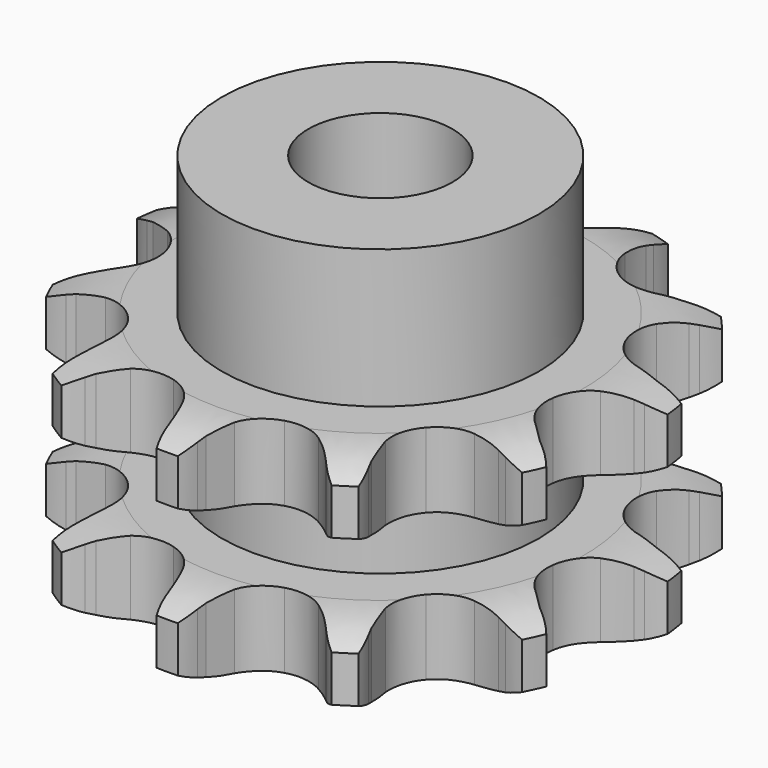
from build123d import *

# Parameters (mm, degrees)
PAD_DEPTH         = 15.4
SKETCH001_R       = 11
PAD001_DEPTH      = 25
SKETCH002_R       = 5
POCKET_DEPTH      = 0.001
POCKET_DEPTH_BACK = 25.001


with BuildPart() as part:
    # Sprocket → Pad (new body)
    with BuildSketch(Plane.XY):
        with BuildLine():
            ThreePointArc((-5.534693, 18.849434), (-4.531257, 17.974923), (-3.774048, 16.880261))
            Line((-3.774048, 16.880261), (-3.501626, 16.357957))
            ThreePointArc((-3.501626, 16.357957), (-3.022974, 15.55414), (-2.456995, 14.809227))
            ThreePointArc((-2.456995, 14.809227), (-1.353005, 13.972494), (0, 13.675355))
            ThreePointArc((0, 13.675355), (1.353005, 13.972494), (2.456995, 14.809227))
            ThreePointArc((2.456995, 14.809227), (3.022974, 15.55414), (3.501626, 16.357957))
            Line((3.501626, 16.357957), (3.774048, 16.880261))
            ThreePointArc((3.774048, 16.880261), (4.531257, 17.974923), (5.534693, 18.849434))
            ThreePointArc((5.534693, 18.849434), (5.906041, 17.57125), (5.951227, 16.240983))
            Line((5.951227, 16.240983), (5.898024, 15.654311))
            ThreePointArc((5.898024, 15.654311), (5.866116, 14.719319), (5.939517, 13.786666))
            ThreePointArc((5.939517, 13.786666), (6.415881, 12.4859), (7.393455, 11.50444))
            ThreePointArc((7.393455, 11.50444), (8.692321, 11.022921), (10.073428, 11.129963))
            Line((10.073428, 11.129963), (11.789535, 11.868067))
            ThreePointArc((11.789535, 11.868067), (12.042722, 12.018656), (12.301089, 12.160175))
            ThreePointArc((12.301089, 12.160175), (13.529913, 12.671685), (14.846854, 12.864872))
            ThreePointArc((14.846854, 12.864872), (14.468213, 11.58883), (13.787029, 10.445308))
            Line((13.787029, 10.445308), (13.425093, 9.980532))
            ThreePointArc((13.425093, 9.980532), (12.892755, 9.211217), (12.450274, 8.386936))
            ThreePointArc((12.450274, 8.386936), (12.147769, 7.035121), (12.43954, 5.680948))
            ThreePointArc((12.43954, 5.680948), (13.271887, 4.573647), (14.491619, 3.917014))
            Line((14.491619, 3.917014), (16.334349, 3.610149))
            ThreePointArc((16.334349, 3.610149), (16.628758, 3.599949), (16.922621, 3.579319))
            ThreePointArc((16.922621, 3.579319), (18.232918, 3.345276), (19.445243, 2.795804))
            ThreePointArc((19.445243, 2.795804), (18.436829, 1.927037), (17.245547, 1.333322))
            Line((17.245547, 1.333322), (16.68979, 1.138005))
            ThreePointArc((16.68979, 1.138005), (15.826036, 0.77862), (15.008157, 0.324413))
            ThreePointArc((15.008157, 0.324413), (14.022827, -0.64926), (13.536159, -1.946206))
            ThreePointArc((13.536159, -1.946206), (13.637722, -3.327727), (14.308823, -4.539559))
            Line((14.308823, -4.539559), (15.693123, -5.793965))
            ThreePointArc((15.693123, -5.793965), (15.935281, -5.961715), (16.171341, -6.137945))
            ThreePointArc((16.171341, -6.137945), (17.147099, -7.043234), (17.869905, -8.160912))
            ThreePointArc((17.869905, -8.160912), (16.551883, -8.346575), (15.228725, -8.201985))
            Line((15.228725, -8.201985), (14.655596, -8.065831))
            ThreePointArc((14.655596, -8.065831), (13.734662, -7.901184), (12.801056, -7.841108))
            ThreePointArc((12.801056, -7.841108), (11.445737, -8.127505), (10.335143, -8.955453))
            ThreePointArc((10.335143, -8.955453), (9.673677, -10.172571), (9.583077, -11.554854))
            Line((9.583077, -11.554854), (10.069441, -13.358536))
            ThreePointArc((10.069441, -13.358536), (10.182465, -13.630578), (10.285774, -13.906455))
            ThreePointArc((10.285774, -13.906455), (10.617198, -15.195567), (10.620998, -16.526596))
            ThreePointArc((10.620998, -16.526596), (9.411831, -15.97021), (8.376891, -15.13322))
            Line((8.376891, -15.13322), (7.968355, -14.708822))
            ThreePointArc((7.968355, -14.708822), (7.28263, -14.072418), (6.52971, -13.517133))
            ThreePointArc((6.52971, -13.517133), (5.234705, -13.025325), (3.852793, -13.121407))
            ThreePointArc((3.852793, -13.121407), (2.638308, -13.787696), (1.814772, -14.901564))
            Line((1.814772, -14.901564), (1.248783, -16.681867))
            ThreePointArc((1.248783, -16.681867), (1.196788, -16.971828), (1.134547, -17.259764))
            ThreePointArc((1.134547, -17.259764), (0.716411, -18.523415), (0, -19.645203))
            ThreePointArc((0, -19.645203), (-0.716411, -18.523415), (-1.134547, -17.259764))
            Line((-1.134547, -17.259764), (-1.248783, -16.681867))
            ThreePointArc((-1.248783, -16.681867), (-1.481585, -15.775758), (-1.814772, -14.901564))
            ThreePointArc((-1.814772, -14.901564), (-2.638308, -13.787696), (-3.852793, -13.121407))
            ThreePointArc((-3.852793, -13.121407), (-5.234705, -13.025325), (-6.52971, -13.517133))
            Line((-6.52971, -13.517133), (-7.968355, -14.708822))
            ThreePointArc((-7.968355, -14.708822), (-8.168861, -14.924643), (-8.376891, -15.13322))
            ThreePointArc((-8.376891, -15.13322), (-9.411831, -15.97021), (-10.620998, -16.526596))
            ThreePointArc((-10.620998, -16.526596), (-10.617198, -15.195567), (-10.285774, -13.906455))
            Line((-10.285774, -13.906455), (-10.069441, -13.358536))
            ThreePointArc((-10.069441, -13.358536), (-9.775408, -12.470407), (-9.583077, -11.554854))
            ThreePointArc((-9.583077, -11.554854), (-9.673677, -10.172571), (-10.335143, -8.955453))
            ThreePointArc((-10.335143, -8.955453), (-11.445737, -8.127505), (-12.801056, -7.841108))
            Line((-12.801056, -7.841108), (-14.655596, -8.065831))
            ThreePointArc((-14.655596, -8.065831), (-14.940954, -8.138989), (-15.228725, -8.201985))
            ThreePointArc((-15.228725, -8.201985), (-16.551883, -8.346575), (-17.869905, -8.160912))
            ThreePointArc((-17.869905, -8.160912), (-17.147099, -7.043234), (-16.171341, -6.137945))
            Line((-16.171341, -6.137945), (-15.693123, -5.793965))
            ThreePointArc((-15.693123, -5.793965), (-14.965607, -5.205789), (-14.308823, -4.539559))
            ThreePointArc((-14.308823, -4.539559), (-13.637722, -3.327727), (-13.536159, -1.946206))
            ThreePointArc((-13.536159, -1.946206), (-14.022827, -0.64926), (-15.008157, 0.324413))
            Line((-15.008157, 0.324413), (-16.68979, 1.138005))
            ThreePointArc((-16.68979, 1.138005), (-16.9694, 1.230736), (-17.245547, 1.333322))
            ThreePointArc((-17.245547, 1.333322), (-18.436829, 1.927037), (-19.445243, 2.795804))
            ThreePointArc((-19.445243, 2.795804), (-18.232918, 3.345276), (-16.922621, 3.579319))
            Line((-16.922621, 3.579319), (-16.334349, 3.610149))
            ThreePointArc((-16.334349, 3.610149), (-15.404332, 3.711629), (-14.491619, 3.917014))
            ThreePointArc((-14.491619, 3.917014), (-13.271887, 4.573647), (-12.43954, 5.680948))
            ThreePointArc((-12.43954, 5.680948), (-12.147769, 7.035121), (-12.450274, 8.386936))
            Line((-12.450274, 8.386936), (-13.425093, 9.980532))
            ThreePointArc((-13.425093, 9.980532), (-13.610181, 10.209712), (-13.787029, 10.445308))
            ThreePointArc((-13.787029, 10.445308), (-14.468213, 11.58883), (-14.846854, 12.864872))
            ThreePointArc((-14.846854, 12.864872), (-13.529913, 12.671685), (-12.301089, 12.160175))
            Line((-12.301089, 12.160175), (-11.789535, 11.868067))
            ThreePointArc((-11.789535, 11.868067), (-10.952291, 11.450632), (-10.073428, 11.129963))
            ThreePointArc((-10.073428, 11.129963), (-8.692321, 11.022921), (-7.393455, 11.50444))
            ThreePointArc((-7.393455, 11.50444), (-6.415881, 12.4859), (-5.939517, 13.786666))
            Line((-5.939517, 13.786666), (-5.898024, 15.654311))
            ThreePointArc((-5.898024, 15.654311), (-5.929826, 15.947175), (-5.951227, 16.240983))
            ThreePointArc((-5.951227, 16.240983), (-5.906041, 17.57125), (-5.534693, 18.849434))
        make_face()
    extrude(amount=PAD_DEPTH)

    # Sketch → Groove (revolve, cut)
    with BuildSketch(Plane.XZ):
        with BuildLine():
            ThreePointArc((14.141101, 0), (16.377169, 0.253206), (18.5, 1))
            Line((18.5, 1), (18.5, 4.2))
            ThreePointArc((18.5, 4.2), (16.377169, 4.946794), (14.141101, 5.2))
            Line((11, 5.2), (14.141101, 5.2))
            Line((11, 10.2), (11, 5.2))
            Line((14.141101, 10.2), (11, 10.2))
            ThreePointArc((14.141101, 10.2), (16.377169, 10.453206), (18.5, 11.2))
            Line((18.5, 11.2), (18.5, 14.4))
            ThreePointArc((18.5, 14.4), (16.377169, 15.146794), (14.141101, 15.4))
            Line((14.141101, 15.4), (24.141101, 15.4))
            Line((24.141101, 15.4), (24.141101, 0))
            Line((14.141101, 0), (24.141101, 0))
        make_face()
    revolve(axis=Axis((0, 0, 0), (0, 0, 1)), mode=Mode.SUBTRACT)

    # Sketch001 → Pad001 (join)
    with BuildSketch(Plane.XY):
        Circle(SKETCH001_R)
    extrude(amount=PAD001_DEPTH)

    # Sketch002 → Pocket (cut, two sides)
    with BuildSketch(Plane.XY) as pocket_sk:
        Circle(SKETCH002_R)
    extrude(amount=-POCKET_DEPTH, mode=Mode.SUBTRACT)
    extrude(pocket_sk.sketch, amount=POCKET_DEPTH_BACK, mode=Mode.SUBTRACT)


solid = part.part
